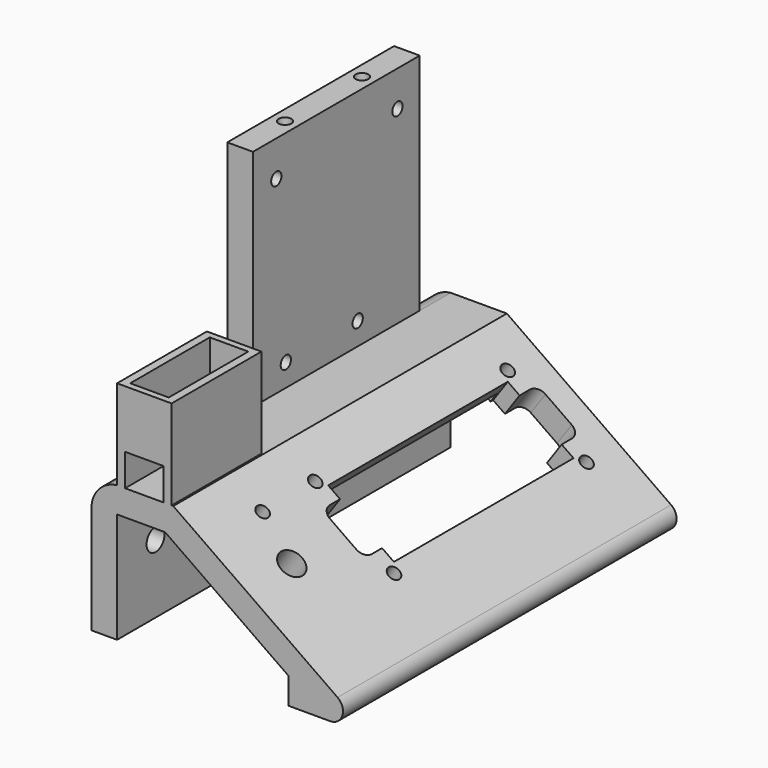
from build123d import *

# Parameters (mm, degrees)
F1_DEPTH       = 80
F1_DEPTH_BACK  = 50
F2_R           = 2
F3_DEPTH       = 25
F4_W           = 17
F4_H           = 35
F4_W_2         = 12
F4_H_2         = 31
F5_DEPTH       = 28
F6_W           = 6
F6_H           = 10
F7_DEPTH       = 35.001
F8_R           = 4
F8_R_2         = 2
F9_DEPTH       = 25
F10_R          = 3.5
F11_DEPTH      = 8
F12_W          = 8
F12_H          = 65
F13_DEPTH      = 70
F13_DEPTH_BACK = 25
F14_R          = 2
F15_DEPTH      = 25
F16_R          = 2
F17_DEPTH      = 25
F18_W          = 35
F18_H          = 68
F19_DEPTH      = 3.5


with BuildPart() as f1:
    # F0 (on Front) → F1 (new body, two sides)
    with BuildSketch(Plane.XZ) as f1_sk:
        with BuildLine():
            Line((7.5, 34.4145861811), (45.9434284027, 7.4962078188))
            Line((45.9434284027, 7.4962078188), (45.9434284027, -0.7233918228))
            Line((45.9434284027, -0.7233918228), (58.9434284027, -0.7233918228))
            ThreePointArc((58.9434284027, -0.7233918228), (62.7582962057, 2.0737849791), (61.2377341481, 6.5532163543))
            Line((61.2377341481, 6.5532163543), (10.022390311, 42.4145861811))
            Line((10.022390311, 42.4145861811), (-7.5, 42.4145861811))
            ThreePointArc((-7.5, 42.4145861811), (-13.2082039325, 39.4703142711), (-15.5, 33.4703142711))
            Line((-15.5, 33.4703142711), (-15.5, 0))
            Line((-15.5, 0), (-7.5, 0))
            Line((-7.5, 0), (-7.5, 34.4145861811))
            Line((-7.5, 34.4145861811), (7.5, 34.4145861811))
        make_face()
    extrude(amount=F1_DEPTH)
    extrude(f1_sk.sketch, amount=-F1_DEPTH_BACK)

    # F2 (on face) → F3 (cut)
    with BuildSketch(Plane(origin=(23.2256022942, 0, 33.1695976219), x_dir=(0.8191520443, 0, -0.5735764364), z_dir=(0.5735764364, 0, 0.8191520443))):
        with BuildLine():
            Line((-1.0957553681, 35), (-1.0957553681, -35))
            Line((-1.0957553681, -35), (3.4042446319, -35))
            Line((3.4042446319, -35), (3.4042446319, -39))
            ThreePointArc((3.4042446319, -39), (4.2829242884, -41.1213203436), (6.4042446319, -42))
            Line((6.4042446319, -42), (16.4042446319, -42))
            ThreePointArc((16.4042446319, -42), (18.5255649755, -41.1213203436), (19.4042446319, -39))
            Line((19.4042446319, -39), (19.4042446319, -35))
            Line((19.4042446319, -35), (23.9042446319, -35))
            Line((23.9042446319, -35), (23.9042446319, 35))
            Line((23.9042446319, 35), (19.4042446319, 35))
            Line((19.4042446319, 35), (3.4042446319, 35))
            Line((3.4042446319, 35), (-1.0957553681, 35))
        make_face()
        with BuildLine():
            Line((3.4042446319, 35.0351855159), (3.4042446319, 35))
            Line((3.4042446319, 35), (19.4042446319, 35))
            Line((19.4042446319, 35), (19.4042446319, 39))
            ThreePointArc((19.4042446319, 39), (18.5255649755, 41.1213203436), (16.4042446319, 42))
            Line((16.4042446319, 42), (6.4042446319, 42))
            ThreePointArc((6.4042446319, 42), (4.2829242884, 41.1213203436), (3.4042446319, 39))
            Line((3.4042446319, 39), (3.4042446319, 35.0351855159))
        make_face()
        with Locations((-3.5957553681, -37.5)):
            Circle(F2_R)
        with Locations((-3.5957553681, 37.5)):
            Circle(F2_R)
        with Locations((26.4042446319, 37.5)):
            Circle(F2_R)
        with Locations((26.4042446319, -37.5)):
            Circle(F2_R)
    extrude(amount=-F3_DEPTH, mode=Mode.SUBTRACT)

    # F4 (on face) → F5 (join)
    with BuildSketch(Plane.XY.offset(42.4145861811)):
        with Locations((1, -62.5)):
            Rectangle(F4_W, F4_H)
        with Locations((1, -62.5)):
            Rectangle(F4_W_2, F4_H_2, mode=Mode.SUBTRACT)
    extrude(amount=F5_DEPTH)

    # F6 (on face) → F7 (cut, through all)
    with BuildSketch(Plane(origin=(0, -45, 0), x_dir=(-1, 0, 0), z_dir=(0, 1, 0))):
        with Locations((-4, 47.4145861811)):
            Rectangle(F6_W, F6_H)
        with Locations((2, 47.4145861811)):
            Rectangle(F6_W, F6_H)
    extrude(amount=-F7_DEPTH, mode=Mode.SUBTRACT)

    # F8 (on face) → F9 (cut)
    with BuildSketch(Plane(origin=(23.2256022942, 0, 33.1695976219), x_dir=(0.8191520443, 0, -0.5735764364), z_dir=(0.5735764364, 0, 0.8191520443))):
        with Locations((11.4042446319, -62)):
            Circle(F8_R)
        with Locations((-3.5957553681, -58)):
            Circle(F8_R_2)
    extrude(amount=-F9_DEPTH, mode=Mode.SUBTRACT)

    # F10 (on face) → F11 (cut, through all)
    with BuildSketch(Plane(origin=(-15.5, 0, 0), x_dir=(0, -1, 0), z_dir=(-1, 0, 0))):
        with Locations((-35, 21.4703142711)):
            Circle(F10_R)
        with Locations((65, 21.4703142711)):
            Circle(F10_R)
    extrude(amount=-F11_DEPTH, mode=Mode.SUBTRACT)

    # F12 (on face) → F13 (join, two sides)
    with BuildSketch(Plane.XY.offset(42.4145861811)) as f13_sk:
        with Locations((-11.5, 5.4507081211)):
            Rectangle(F12_W, F12_H)
    extrude(amount=F13_DEPTH)
    extrude(f13_sk.sketch, amount=-F13_DEPTH_BACK)

    # F14 (on face) → F15 (cut)
    with BuildSketch(Plane.XY.offset(112.4145861811)):
        with Locations((-11.5, -9.5492918789)):
            Circle(F14_R)
        with Locations((-11.5, 20.4507081211)):
            Circle(F14_R)
    extrude(amount=-F15_DEPTH, mode=Mode.SUBTRACT)

    # F16 (on face) → F17 (cut)
    with BuildSketch(Plane.YZ.offset(-7.5)):
        with Locations((13.7650537365, 49.4145861811)):
            Circle(F16_R)
        with Locations((-14.2349462635, 49.4145861811)):
            Circle(F16_R)
        with Locations((29.2650537365, 101.3145861811)):
            Circle(F16_R)
        with Locations((-17.9349462635, 101.3145861811)):
            Circle(F16_R)
    extrude(amount=-F17_DEPTH, mode=Mode.SUBTRACT)

    # F18 (on face) → F19 (cut)
    with BuildSketch(Plane(origin=(18.6369908034, 0, 26.6163812675), x_dir=(0.8191520443, 0, -0.5735764364), z_dir=(-0.5735764364, 0, -0.8191520443))):
        with Locations((11.4042446319, 0)):
            Rectangle(F18_W, F18_H)
    extrude(amount=-F19_DEPTH, mode=Mode.SUBTRACT)


solid = f1.part
